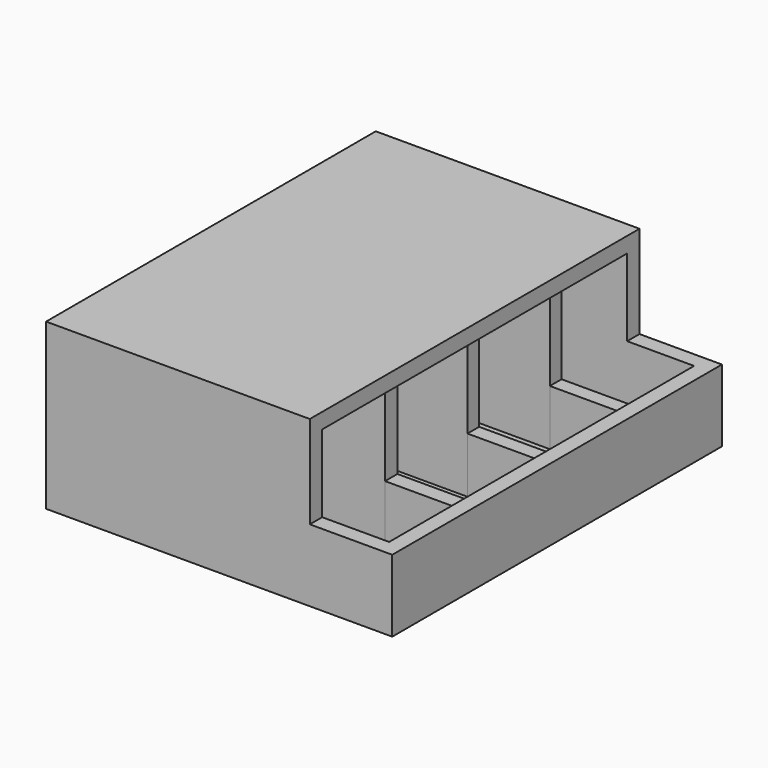
from build123d import *

# Parameters (mm, degrees)
F1_DEPTH = 254
F2_W     = 41.275
F2_H     = 234.95
F3_DEPTH = 34.925
F5_DEPTH = 153.035
F6_W     = 4.2333333333
F6_H     = 82.55
F6_W_2   = 4.7625
F7_DEPTH = 152.4
F8_W     = 41.91
F8_H     = 8.9958333333
F9_DEPTH = 34.29
F8_H_2   = 9.525


with BuildPart() as f1:
    # F0 (on Front) → F1 (new body)
    with BuildSketch(Plane.XZ):
        Polygon((-50.8, 57.15), (-213.36, 57.15), (-213.36, -44.45), (0, -44.45), (0, 0), (-50.8, 0), align=None)
    extrude(amount=F1_DEPTH)

    # F2 (on face) → F3 (cut)
    with BuildSketch(Plane.XY):
        with Locations((-30.1625, -127)):
            Rectangle(F2_W, F2_H)
    extrude(amount=-F3_DEPTH, mode=Mode.SUBTRACT)

    # F4 (on face) → F5 (cut)
    with BuildSketch(Plane.YZ.offset(-50.8)):
        Polygon((-244.475, 47.625), (-244.475, 0), (-244.475, -34.925), (-9.525, -34.925), (-9.525, 0), (-9.525, 47.625), align=None)
    extrude(amount=-F5_DEPTH, mode=Mode.SUBTRACT)

    # F6 (on face) → F7 (join)
    with BuildSketch(Plane.YZ.offset(-203.835)):
        with Locations((-124.8833333333, 6.35)):
            Rectangle(F6_W, F6_H)
        with Locations((-129.38125, 6.35)):
            Rectangle(F6_W_2, F6_H)
        with Locations((-65.88125, 6.35)):
            Rectangle(F6_W_2, F6_H)
        with Locations((-61.3833333333, 6.35)):
            Rectangle(F6_W, F6_H)
        with Locations((-192.88125, 6.35)):
            Rectangle(F6_W_2, F6_H)
        with Locations((-188.11875, 6.35)):
            Rectangle(F6_W_2, F6_H)
    extrude(amount=F7_DEPTH)


with BuildPart() as f9:
    # F8 (on face) → F9 (new body)
    with BuildSketch(Plane.XY.offset(-34.925)):
        with Locations((-30.48, -63.7645833333)):
            Rectangle(F8_W, F8_H)
    extrude(amount=F9_DEPTH)


with BuildPart() as f9b:
    # F8 (on face) → F9, piece 2 (new body)
    with BuildSketch(Plane.XY.offset(-34.925)):
        with Locations((-30.48, -127.2645833333)):
            Rectangle(F8_W, F8_H)
    extrude(amount=F9_DEPTH)


with BuildPart() as f9c:
    # F8 (on face) → F9, piece 3 (new body)
    with BuildSketch(Plane.XY.offset(-34.925)):
        with Locations((-30.48, -190.5)):
            Rectangle(F8_W, F8_H_2)
    extrude(amount=F9_DEPTH)


solid = Compound([f1.part, f9.part, f9b.part, f9c.part])
